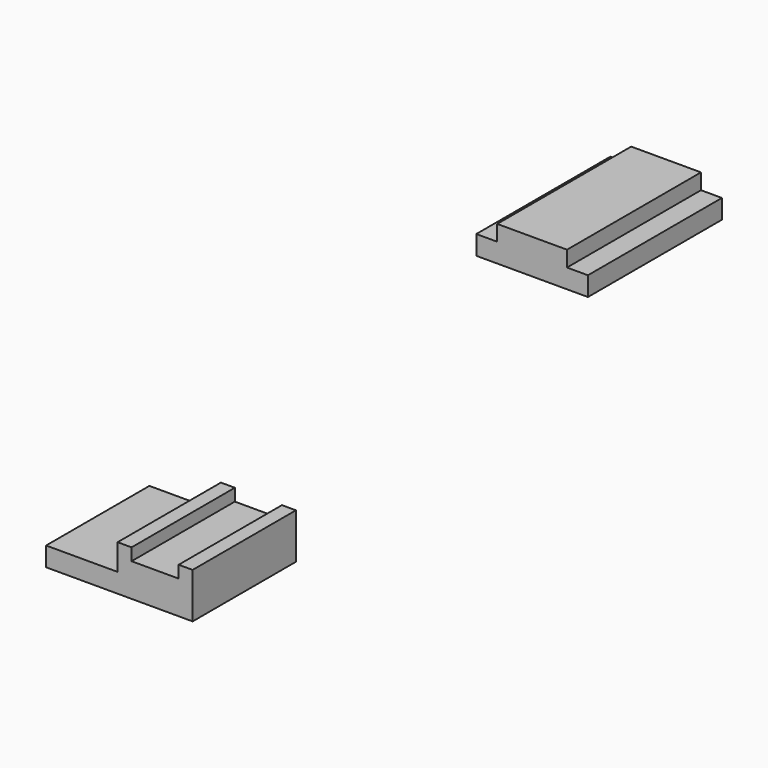
from build123d import *

# Parameters (mm, degrees)
F0_W     = 101.6
F0_H     = 152.4
F1_DEPTH = 15.875
F3_DEPTH = 17.4625
F0_W_2   = 133.35
F0_H_2   = 117.475
F4_W     = 68.2625
F4_H     = 117.475
F5_DEPTH = 12.7
F6_W     = 12.7
F6_H     = 117.475
F7_DEPTH = 11.1125
F2_W     = 63.5
F2_H     = 152.4
F8_DEPTH = 15.875


with BuildPart() as f1:
    # F0 (on Top) → F1 (new body)
    with BuildSketch(Plane.XY):
        with Locations((-28.8477124095, -48.5382462025)):
            Rectangle(F0_W, F0_H)
    extrude(amount=F1_DEPTH)

    # F0 (on Top) → F3 (join)
    with BuildSketch(Plane.XY):
        with Locations((-28.8477124095, -48.5382462025)):
            Rectangle(F0_W, F0_H)
    extrude(amount=F3_DEPTH)

    # F2 (on face) → F8 (join)
    with BuildSketch(Plane.XY.offset(15.875)):
        with Locations((-28.8477124095, -48.5382462025)):
            Rectangle(F2_W, F2_H)
    extrude(amount=F8_DEPTH)


with BuildPart() as f3:
    # F0 (on Top) → F3, piece 2 (new body)
    with BuildSketch(Plane.XY):
        with Locations((47.7483122468, -631.2457487106)):
            Rectangle(F0_W_2, F0_H_2)
    extrude(amount=F3_DEPTH)

    # F4 (on face) → F5 (join)
    with BuildSketch(Plane.XY.offset(17.4625)):
        with Locations((80.2920622468, -631.2457487106)):
            Rectangle(F4_W, F4_H)
    extrude(amount=F5_DEPTH)

    # F6 (on face) → F7 (join)
    with BuildSketch(Plane.XY.offset(30.1625)):
        with Locations((52.5108122468, -631.2457487106)):
            Rectangle(F6_W, F6_H)
        with Locations((108.0733122468, -631.2457487106)):
            Rectangle(F6_W, F6_H)
    extrude(amount=F7_DEPTH)


solid = Compound([f1.part, f3.part])
